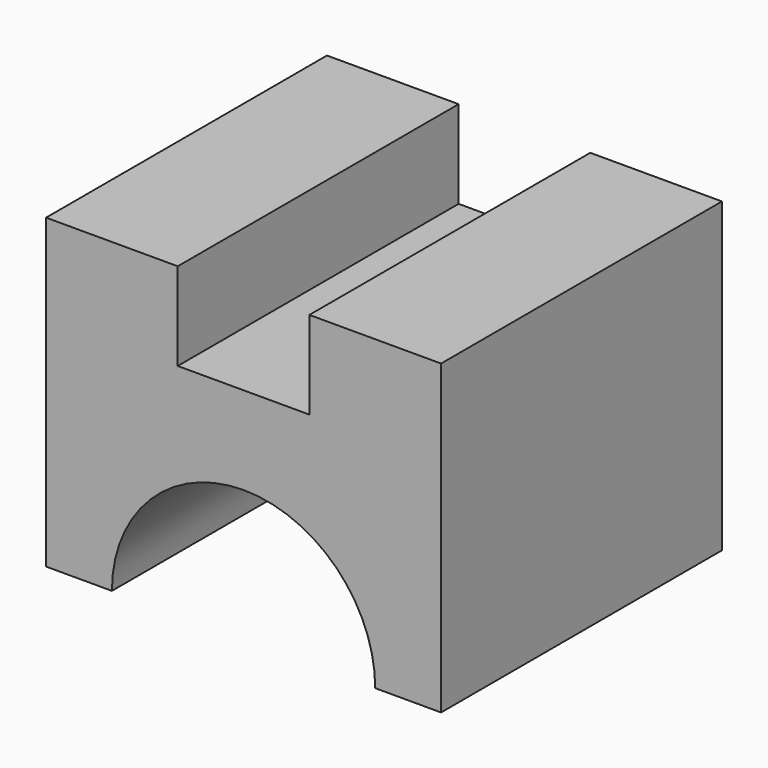
from build123d import *

# Parameters (mm, degrees)
F1_DEPTH = 40


with BuildPart() as f1:
    # F0 (on Front) → F1 (new body)
    with BuildSketch(Plane.XZ):
        with BuildLine():
            Line((-22.5, 0), (-15, 0))
            ThreePointArc((-15, 0), (-10.606602, 10.606602), (0, 15))
            ThreePointArc((0, 15), (10.606602, 10.606602), (15, 0))
            Line((15, 0), (22.5, 0))
            Line((22.5, 0), (22.5, 35))
            Line((22.5, 35), (7.5, 35))
            Line((7.5, 35), (7.5, 25))
            Line((7.5, 25), (-7.5, 25))
            Line((-7.5, 25), (-7.5, 35))
            Line((-7.5, 35), (-22.5, 35))
            Line((-22.5, 35), (-22.5, 0))
        make_face()
    extrude(amount=F1_DEPTH)


solid = f1.part
